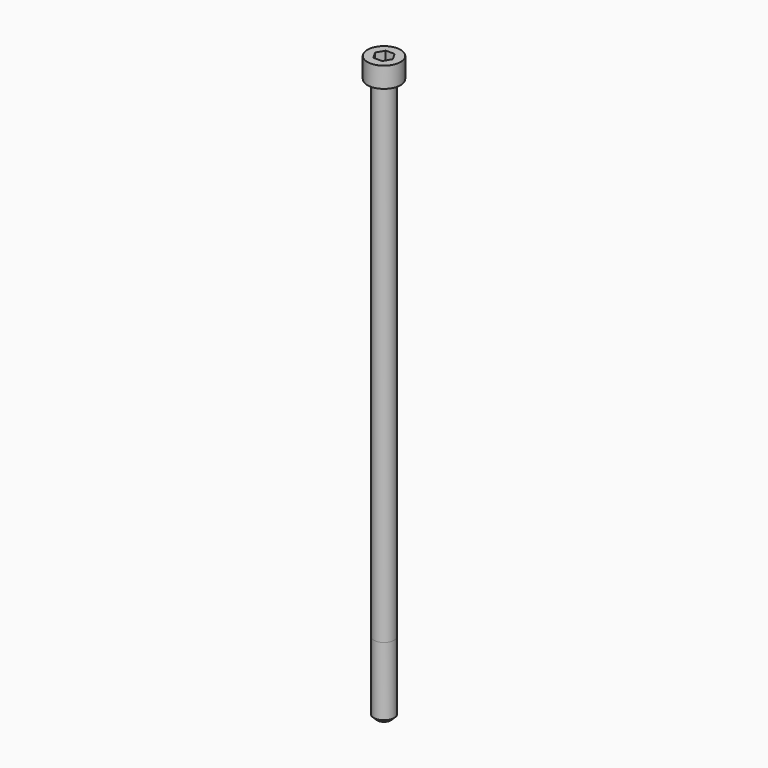
from build123d import *

# Parameters (mm, degrees)
POCKET_DEPTH = 6.06


with BuildPart() as part:
    # Sketch → Revolve (revolve)
    with BuildSketch(Plane.YZ):
        with BuildLine():
            Line((3.999, 0), (6.5, 0))
            Line((6.5, 0), (6.5, 7.97229))
            ThreePointArc((6.5, 7.97229), (6.491884, 7.991884), (6.47229, 8))
            Line((6.47229, 8), (0, 8))
            Line((0, -220), (0, 8))
            Line((2.75, -220), (0, -220))
            Line((4, -218.75), (2.75, -220))
            Line((4, -192), (4, -218.75))
            Line((3.999, 0), (4, -192))
        make_face()
    revolve(axis=Axis((0, 0, 0), (0, 0, 1)))

    # Sketch001 → Pocket (cut)
    with BuildSketch(Plane.XY.offset(8)):
        Polygon((3.498743, 0), (1.749371, 3.03), (-1.749371, 3.03), (-3.498743, 0), (-1.749371, -3.03), (1.749371, -3.03), align=None)
    extrude(amount=-POCKET_DEPTH, mode=Mode.SUBTRACT)


solid = part.part
